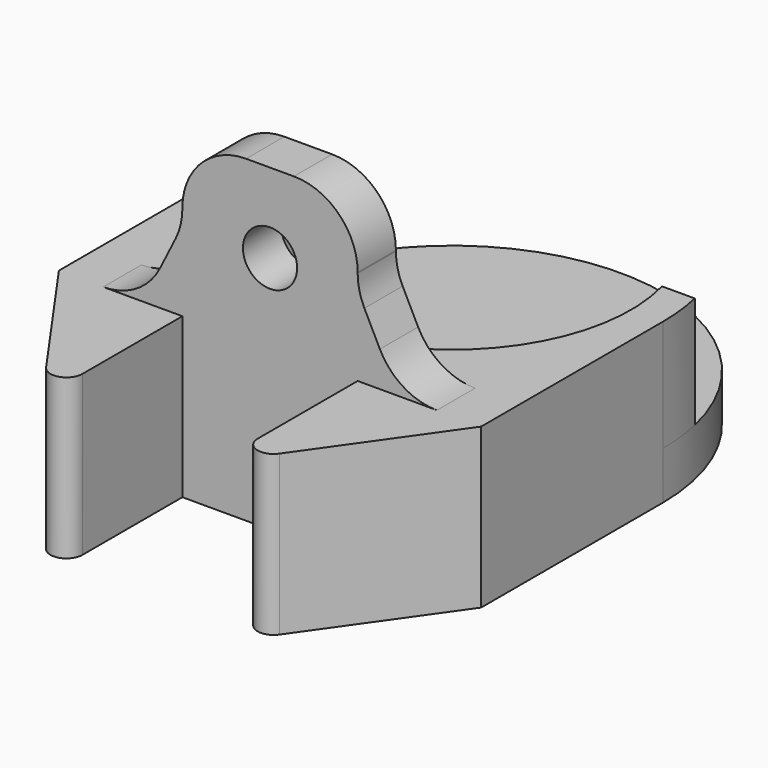
from build123d import *

# Parameters (mm, degrees)
PAD_DEPTH    = 3
PAD001_DEPTH = 7
SKETCH001_R  = 1.2
POCKET_DEPTH = 3.001
SKETCH003_R  = 1.7
PAD002_DEPTH = 3
FILLET_R     = 4
FILLET001_R  = 1


with BuildPart() as part:
    # Sketch → Pad (new body)
    with BuildSketch(Plane.XY):
        with BuildLine():
            Line((5.5, -14.25), (5.5, -25.25))
            Line((5.5, -25.25), (13.25, -14.25))
            Line((13.25, -14.25), (13.25, 0))
            ThreePointArc((13.25, 0), (0, 13.25), (-13.25, 0))
            Line((-13.25, -14.25), (-13.25, 0))
            Line((-13.25, -14.25), (-5.5, -25.25))
            Line((-5.5, -25.25), (-5.5, -14.25))
            Line((-5.5, -14.25), (5.5, -14.25))
        make_face()
    extrude(amount=PAD_DEPTH)

    # Sketch002 → Pad001 (join)
    with BuildSketch(Plane.XY.offset(3)):
        with BuildLine():
            Line((-13.25, 0), (-13.25, -14.25))
            Line((-13.25, -14.25), (-5.5, -25.25))
            Line((-5.5, -25.25), (-5.5, -14.25))
            Line((-5.5, -14.25), (5.5, -14.25))
            Line((5.5, -14.25), (5.5, -25.25))
            Line((5.5, -25.25), (13.25, -14.25))
            Line((13.25, -14.25), (13.25, 0))
            ThreePointArc((13.25, 0), (13.169004, 1.462815), (12.927007, 2.907747))
            Line((10.867728, 2.907747), (12.927007, 2.907747))
            ThreePointArc((-10.867728, 2.907747), (0, -11.25), (10.867728, 2.907747))
            Line((-12.927007, 2.907747), (-10.867728, 2.907747))
            ThreePointArc((-12.927007, 2.907747), (-13.169004, 1.462815), (-13.25, 0))
        make_face()
    extrude(amount=PAD001_DEPTH)

    # Sketch001 (on Face10 of Pad) → Pocket (cut, through all)
    with BuildSketch(Plane.XY.offset(3)):
        with Locations((-7.75, 0)):
            Circle(SKETCH001_R)
        with Locations((7.75, 0)):
            Circle(SKETCH001_R)
    extrude(amount=-POCKET_DEPTH, mode=Mode.SUBTRACT)

    # Sketch003 (on Face19 of Pocket) → Pad002 (join)
    with BuildSketch(Plane.XZ.offset(14.25)):
        Polygon((-5.5, 15), (-8, 10), (8, 10), (5.5, 15), (5.5, 20), (-5.5, 20), align=None)
        with Locations((0, 15)):
            Circle(SKETCH003_R, mode=Mode.SUBTRACT)
    extrude(amount=-PAD002_DEPTH)

    # Fillet
    fillet_edges = [part.edges().sort_by_distance(p)[0] for p in [
        (-5.5, -12.75, 15),
        (-5.5, -12.75, 20),
        (-8, -12.75, 10),
        (8, -12.75, 10),
        (5.5, -12.75, 15),
        (5.5, -12.75, 20),
    ]]
    fillet(fillet_edges, radius=FILLET_R)

    # Fillet001
    fillet001_edges = [part.edges().sort_by_distance(p)[0] for p in [
        (5.5, -25.25, 6.5),
        (5.5, -25.25, 1.5),
        (-5.5, -25.25, 6.5),
        (-5.5, -25.25, 1.5),
    ]]
    fillet(fillet001_edges, radius=FILLET001_R)


solid = part.part
